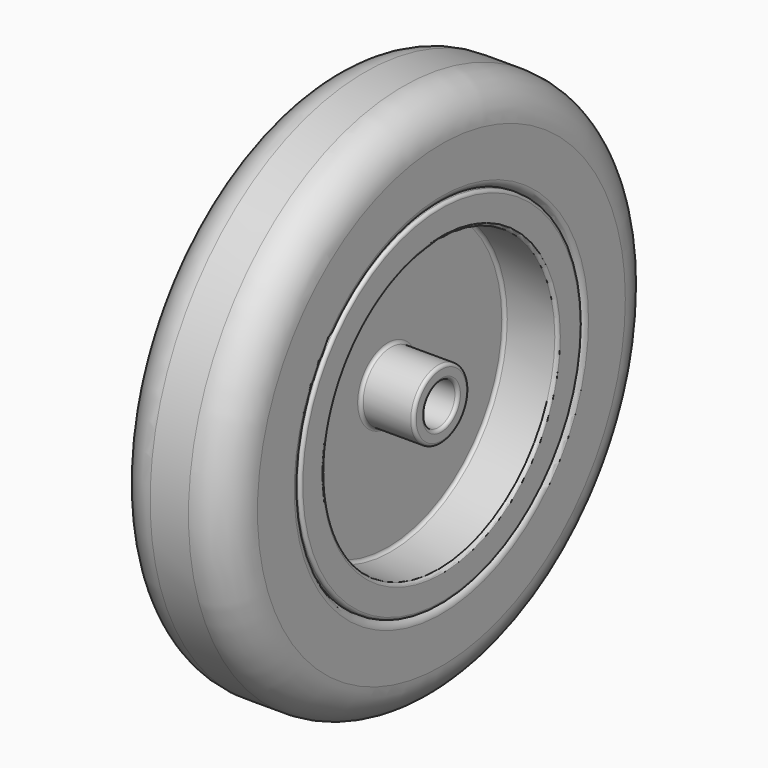
from build123d import *

# Parameters (mm, degrees)
F0_R     = 175
F0_R_2   = 115
F1_DEPTH = 37.5
F0_R_3   = 95
F2_DEPTH = 37.5
F0_R_4   = 22.5
F0_R_5   = 13.5
F3_DEPTH = 2.5
F4_R     = 25
F5_R     = 2
F6_R     = 5
F7_R     = 2


with BuildPart() as f1:
    # F0 (on Right) → F1 (new body, symmetric)
    with BuildSketch(Plane.YZ):
        Circle(F0_R)
        Circle(F0_R_2, mode=Mode.SUBTRACT)
    extrude(amount=F1_DEPTH, both=True)

    # F4
    f4_edges = [f1.edges().sort_by_distance(p)[0] for p in [
        (37.5, -175, 0),
        (-37.5, -175, 0),
    ]]
    fillet(f4_edges, radius=F4_R)

    # F6
    f6_edges = [f1.edges().sort_by_distance(p)[0] for p in [
        (-37.5, -115, 0),
        (37.5, -115, 0),
    ]]
    fillet(f6_edges, radius=F6_R)


with BuildPart() as f2:
    # F0 (on Right) → F2 (new body, symmetric)
    with BuildSketch(Plane.YZ):
        Circle(F0_R_2)
        Circle(F0_R_3, mode=Mode.SUBTRACT)
    extrude(amount=F2_DEPTH, both=True)



with BuildPart() as f2b:
    # F0 (on Right) → F2, piece 2 (new body, symmetric)
    with BuildSketch(Plane.YZ):
        Circle(F0_R_4)
        Circle(F0_R_5, mode=Mode.SUBTRACT)
    extrude(amount=F2_DEPTH, both=True)


with BuildPart() as f2_1:
    add(f2.part)

    add(f2b.part)  # F3 merges F2b
    # F0 (on Right) → F3 (join, symmetric)
    with BuildSketch(Plane.YZ):
        Circle(F0_R_3)
        Circle(F0_R_4, mode=Mode.SUBTRACT)
    extrude(amount=F3_DEPTH, both=True)

    # F5
    f5_edges = [f2_1.edges().sort_by_distance(p)[0] for p in [
        (2.5, -22.5, 0),
        (20, 22.5, 0),
        (37.5, -22.5, 0),
        (20, 95, 0),
        (2.5, -95, 0),
        (37.5, -95, 0),
        (-2.5, -95, 0),
        (-20, 95, 0),
        (-37.5, -95, 0),
        (-20, 22.5, 0),
        (-2.5, -22.5, 0),
        (-37.5, -22.5, 0),
        (37.5, -13.5, 0),
        (0, 13.5, 0),
        (-37.5, -13.5, 0),
    ]]
    fillet(f5_edges, radius=F5_R)

    # F7
    f7_edges = [f2_1.edges().sort_by_distance(p)[0] for p in [
        (-37.5, -115, 0),
        (37.5, -115, 0),
    ]]
    fillet(f7_edges, radius=F7_R)


solid = Compound([f1.part, f2_1.part])
